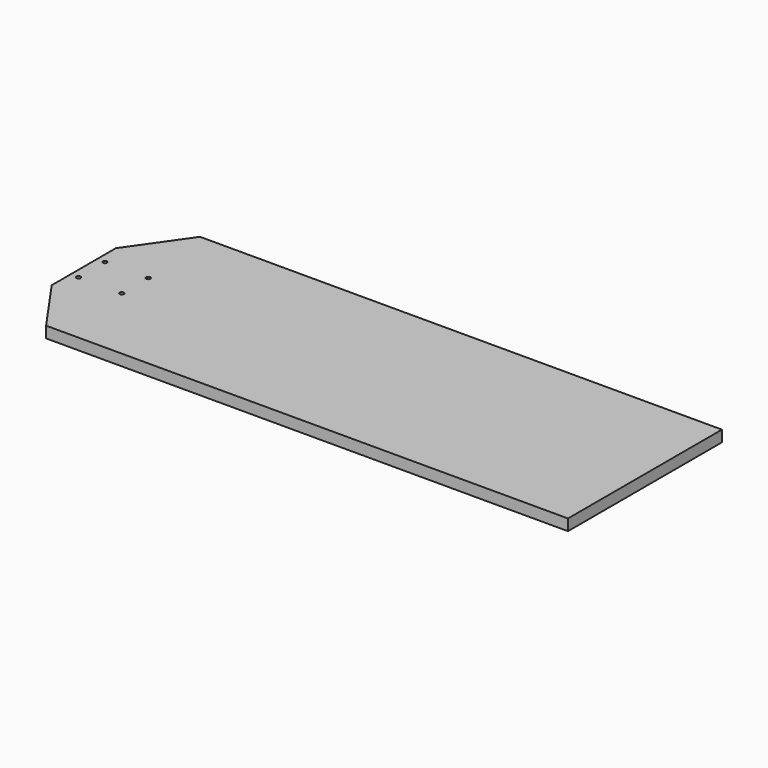
from build123d import *

# Parameters (mm, degrees)
F1_DEPTH = 14
F2_D     = 5.25


with BuildPart() as f1:
    # F0 (on Top) → F1 (new body)
    with BuildSketch(Plane.XY):
        Polygon((-300.9854723253, -120), (350, -120), (350, 120), (-300.9854723253, 120), (-350, 50), (-350, -50), align=None)
    extrude(amount=F1_DEPTH)

    # F2 (through all)
    with Locations(Plane(origin=(0, 0, 0), x_dir=(1, 0, 0), z_dir=(0, 0, -1))):
        with Locations((-340, -20.6375), (-286, -20.6375), (-286, 20.6375), (-340, 20.6375)):
            Hole(F2_D / 2)


solid = f1.part
